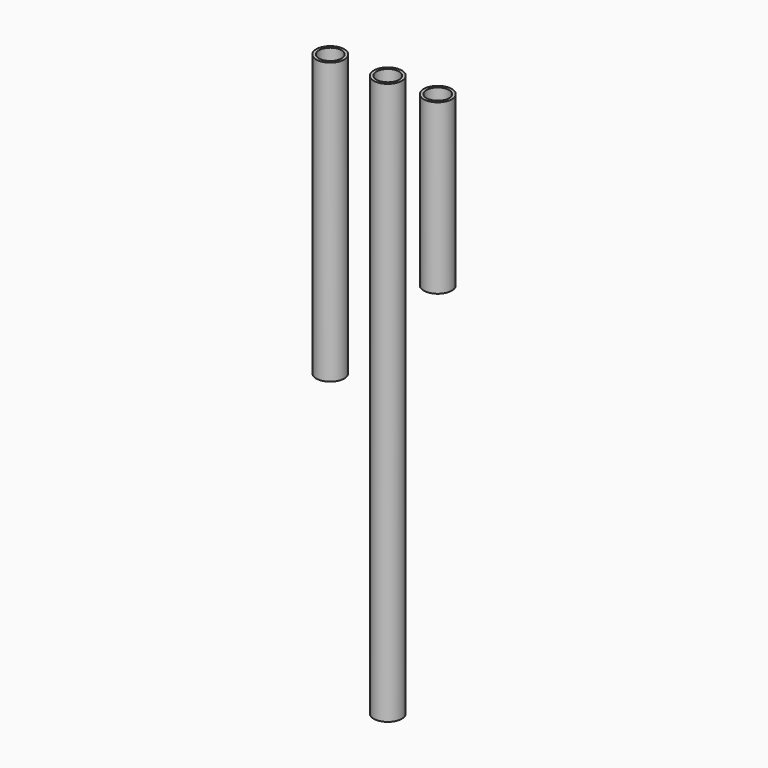
from build123d import *

# Parameters (mm, degrees)
F0_W     = 2.54
F0_H     = 254
F2_R     = 12.7
F2_R_2   = 10.16
F3_DEPTH = 508
F4_DEPTH = 152.4


with BuildPart() as f1:
    # F0 (on Front) → F1 (revolve)
    with BuildSketch(Plane.XZ):
        with Locations((11.43, -127)):
            Rectangle(F0_W, F0_H)
    revolve(axis=Axis((0, 0, -67.646876), (0, 0, -1)))


with BuildPart() as f3:
    # F2 (on Top) → F3 (new body)
    with BuildSketch(Plane.XY):
        with Locations((52.027021, 0)):
            Circle(F2_R)
        with Locations((52.027021, 0)):
            Circle(F2_R_2, mode=Mode.SUBTRACT)
    extrude(amount=-F3_DEPTH)


with BuildPart() as f4:
    # F2 (on Top) → F4 (new body)
    with BuildSketch(Plane.XY):
        with Locations((97.239021, 0)):
            Circle(F2_R)
        with Locations((97.239021, 0)):
            Circle(F2_R_2, mode=Mode.SUBTRACT)
    extrude(amount=-F4_DEPTH)


solid = Compound([f1.part, f3.part, f4.part])
